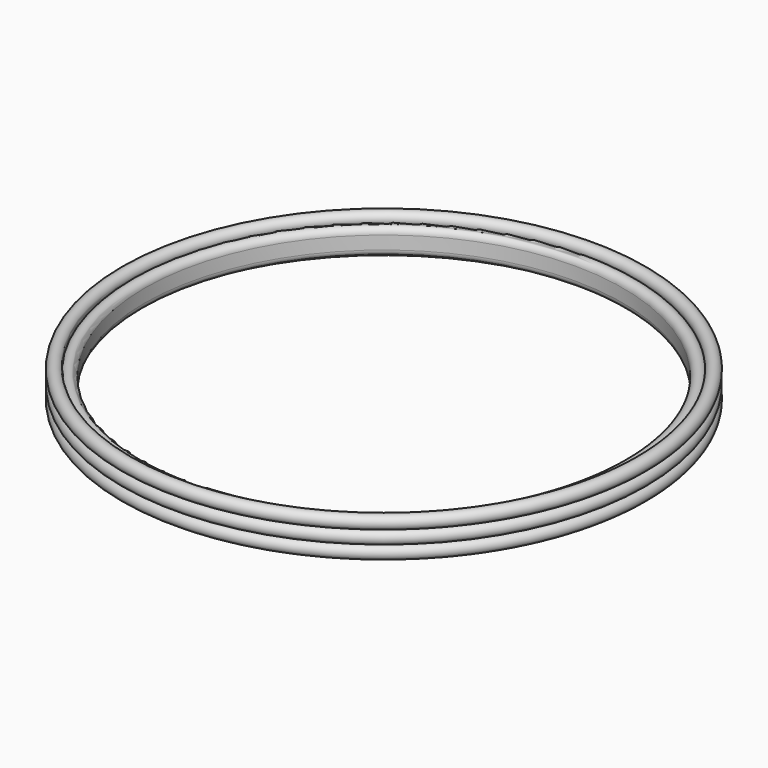
from build123d import *


with BuildPart() as f1:
    # F0 (on Front) → F1 (revolve)
    with BuildSketch(Plane.XZ):
        with BuildLine():
            ThreePointArc((3.175, 12.7), (0, 9.525), (3.175, 6.35))
            ThreePointArc((3.175, 6.35), (1.5875, 0.425369), (5.924631, 4.7625))
            ThreePointArc((5.924631, 4.7625), (9.49603, 3.28319), (11.849261, 6.350037))
            Line((11.849261, 6.350037), (11.849188, 12.678394))
            ThreePointArc((11.849188, 12.678394), (9.506442, 15.764001), (5.924631, 14.2875))
            ThreePointArc((5.924631, 14.2875), (1.5875, 18.624631), (3.175, 12.7))
        make_face()
        with BuildLine():
            ThreePointArc((3.175, 12.7), (0, 9.525), (3.175, 6.35))
            ThreePointArc((3.175, 6.35), (1.5875, 0.425369), (5.924631, 4.7625))
            ThreePointArc((5.924631, 4.7625), (9.49603, 3.28319), (11.849261, 6.350037))
            Line((11.849261, 6.350037), (11.849188, 12.678394))
            ThreePointArc((11.849188, 12.678394), (9.506442, 15.764001), (5.924631, 14.2875))
            ThreePointArc((5.924631, 14.2875), (1.5875, 18.624631), (3.175, 12.7))
        make_face()
        with BuildLine():
            ThreePointArc((3.175, 12.7), (0, 9.525), (3.175, 6.35))
            ThreePointArc((3.175, 6.35), (1.5875, 0.425369), (5.924631, 4.7625))
            ThreePointArc((5.924631, 4.7625), (9.49603, 3.28319), (11.849261, 6.350037))
            Line((11.849261, 6.350037), (11.849188, 12.678394))
            ThreePointArc((11.849188, 12.678394), (9.506442, 15.764001), (5.924631, 14.2875))
            ThreePointArc((5.924631, 14.2875), (1.5875, 18.624631), (3.175, 12.7))
        make_face()
    revolve(axis=Axis((127, 0, 18.249311), (0, 0, 1)))


solid = f1.part
